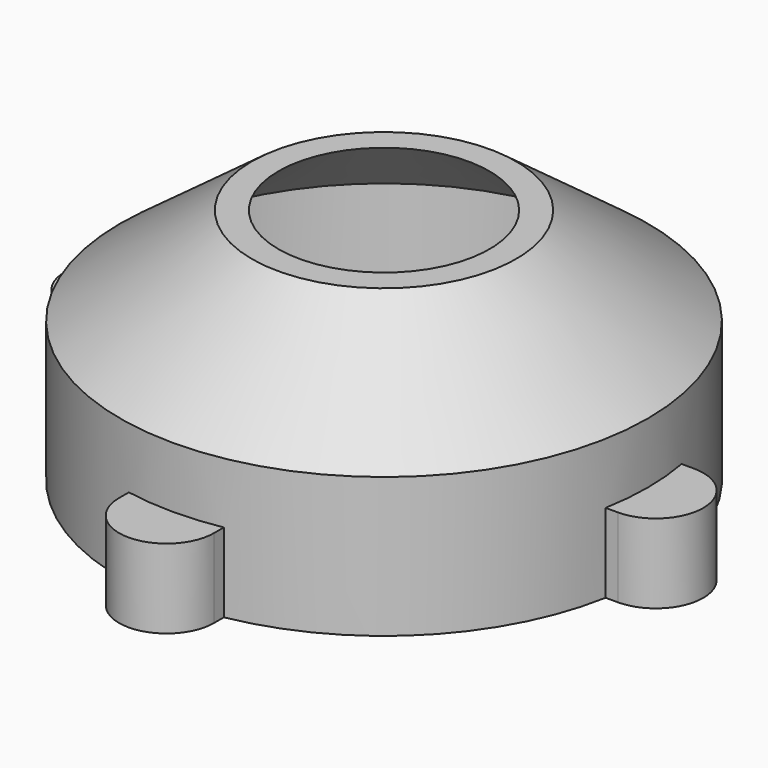
from build123d import *

# Parameters (mm, degrees)
PAD022_DEPTH          = 3
POLARPATTERN001_COUNT = 4


with BuildPart() as part:
    # Sketch042 → Revolution002 (revolve)
    with BuildSketch(Plane.XZ):
        Polygon((-10, 0), (-10, 5.302235), (-5.008018, 9), (-4, 9), (-9.4, 5), (-9.4, 0), align=None)
    revolve(axis=Axis((0, 0, 0), (0, 0, 1)))

    # Sketch043 → Pad022 (new body)
    with BuildSketch(Plane.XY):
        with BuildLine():
            ThreePointArc((-10.3, 1.8), (-12.1, 0), (-10.3, -1.8))
            Line((-10.3, -1.8), (-9.6, -1.8))
            Line((-9.6, -1.8), (-9.6, 1.8))
            Line((-9.6, 1.8), (-10.3, 1.8))
        make_face()
        with BuildLine():
            ThreePointArc((10.3, -1.8), (12.1, 0), (10.3, 1.8))
            Line((10.3, 1.8), (9.6, 1.8))
            Line((9.6, 1.8), (9.6, -1.8))
            Line((10.3, -1.8), (9.6, -1.8))
        make_face()
    pad022 = extrude(amount=PAD022_DEPTH)

    # PolarPattern001: Pad022 ×4 about axis
    polarpattern001_axis = Axis((0, 0, 0), (0, 0, 1))
    for i in range(1, POLARPATTERN001_COUNT):
        add(pad022.rotate(polarpattern001_axis, i * 360 / POLARPATTERN001_COUNT))


with BuildPart() as part_1:
    # Body007 placement: moved
    add(part.part.moved(Location((99.16, -174.6, 1.5))))


solid = part_1.part
